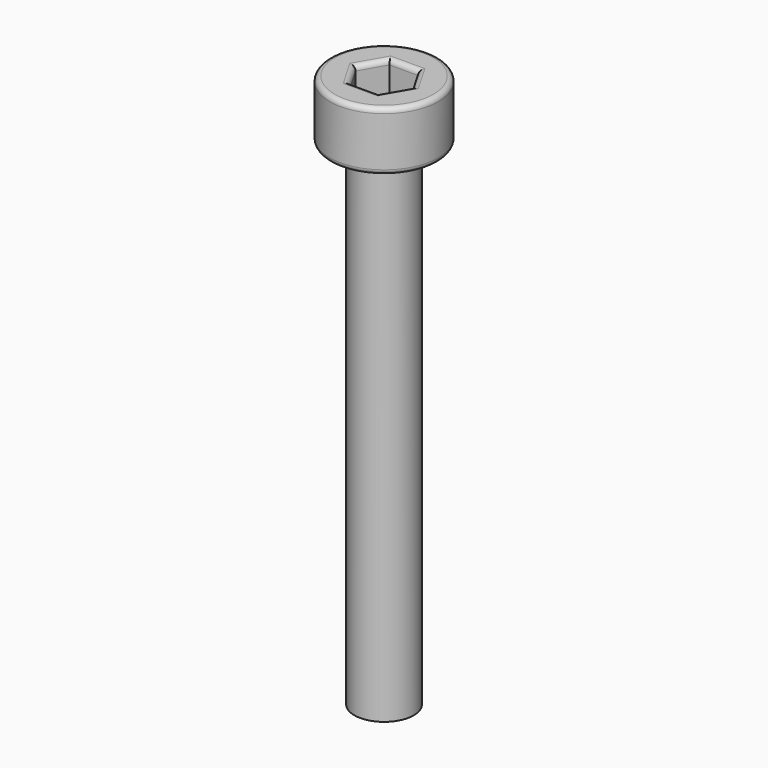
from build123d import *

# Parameters (mm, degrees)
F0_R     = 2.75
F1_DEPTH = 3
F2_R     = 1.5
F3_DEPTH = 25
F5_DEPTH = 2
F6_R     = 0.25


with BuildPart() as f1:
    # F0 (on Top) → F1 (new body)
    with BuildSketch(Plane.XY):
        Circle(F0_R)
    extrude(amount=-F1_DEPTH)

    # F2 (on face) → F3 (join)
    with BuildSketch(Plane(origin=(0, 0, -3), x_dir=(1, 0, 0), z_dir=(0, 0, -1))):
        Circle(F2_R)
    extrude(amount=F3_DEPTH)

    # F4 (on face) → F5 (cut)
    with BuildSketch(Plane.XY):
        Polygon((0.7216878365, 1.25), (-0.7216878365, 1.25), (-1.443375673, 0), (-0.7216878365, -1.25), (0.7216878365, -1.25), (1.443375673, 0), align=None)
    extrude(amount=-F5_DEPTH, mode=Mode.SUBTRACT)

    # F6
    f6_edges = [f1.edges().sort_by_distance(p)[0] for p in [
        (-2.75, 0, 0),
        (1.082532, 0.625, 0),
        (0, 1.25, 0),
        (-1.082532, 0.625, 0),
        (-1.082532, -0.625, 0),
        (0, -1.25, 0),
        (1.082532, -0.625, 0),
        (-2.75, 0, -3),
        (-1.5, 0, -3),
    ]]
    fillet(f6_edges, radius=F6_R)


solid = f1.part
